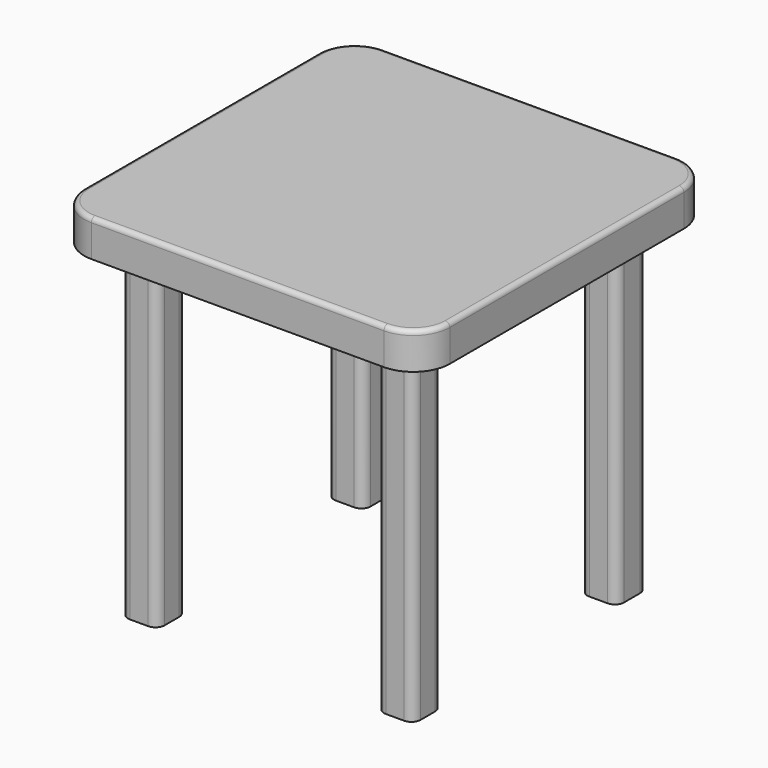
from build123d import *

# Parameters (mm, degrees)
F1_DEPTH = 40
F3_DEPTH = 360
F4_R     = 5


with BuildPart() as f1:
    # F0 (on Top) → F1 (new body)
    with BuildSketch(Plane.XY):
        with BuildLine():
            Line((174.920015, 267.026268), (-145.079985, 267.026268))
            ThreePointArc((-145.079985, 267.026268), (-173.364256, 255.310539), (-185.079985, 227.026268))
            Line((-185.079985, 227.026268), (-185.079985, -92.973732))
            ThreePointArc((-185.079985, -92.973732), (-173.364256, -121.258003), (-145.079985, -132.973732))
            Line((-145.079985, -132.973732), (174.920015, -132.973732))
            ThreePointArc((174.920015, -132.973732), (203.204286, -121.258003), (214.920015, -92.973732))
            Line((214.920015, -92.973732), (214.920015, 227.026268))
            ThreePointArc((214.920015, 227.026268), (203.204286, 255.310539), (174.920015, 267.026268))
        make_face()
    extrude(amount=F1_DEPTH)

    # F2 (on face) → F3 (join)
    with BuildSketch(Plane(origin=(0, 0, 0), x_dir=(1, 0, 0), z_dir=(0, 0, -1))):
        with BuildLine():
            ThreePointArc((-145.079985, 62.973732), (-142.151053, 55.902664), (-135.079985, 52.973732))
            Line((-135.079985, 52.973732), (-115.079985, 52.973732))
            ThreePointArc((-115.079985, 52.973732), (-108.008917, 55.902664), (-105.079985, 62.973732))
            Line((-105.079985, 62.973732), (-105.079985, 82.973732))
            ThreePointArc((-105.079985, 82.973732), (-108.008917, 90.0448), (-115.079985, 92.973732))
            Line((-115.079985, 92.973732), (-135.079985, 92.973732))
            ThreePointArc((-135.079985, 92.973732), (-142.151053, 90.0448), (-145.079985, 82.973732))
            Line((-145.079985, 82.973732), (-145.079985, 62.973732))
        make_face()
        with BuildLine():
            Line((-115.079985, -188.623472), (-135.079985, -188.623472))
            ThreePointArc((-135.079985, -188.623472), (-142.151053, -191.552404), (-145.079985, -198.623472))
            Line((-145.079985, -198.623472), (-145.079985, -217.026268))
            ThreePointArc((-145.079985, -217.026268), (-142.151053, -224.097336), (-135.079985, -227.026268))
            Line((-135.079985, -227.026268), (-115.079985, -227.026268))
            ThreePointArc((-115.079985, -227.026268), (-108.008917, -224.097336), (-105.079985, -217.026268))
            Line((-105.079985, -217.026268), (-105.079985, -198.623472))
            ThreePointArc((-105.079985, -198.623472), (-108.008917, -191.552404), (-115.079985, -188.623472))
        make_face()
        with BuildLine():
            ThreePointArc((174.920015, -195.220733), (171.991083, -188.149665), (164.920015, -185.220733))
            Line((164.920015, -185.220733), (144.920015, -185.220733))
            ThreePointArc((144.920015, -185.220733), (137.848947, -188.149665), (134.920015, -195.220733))
            Line((134.920015, -195.220733), (134.920015, -217.026268))
            ThreePointArc((134.920015, -217.026268), (137.848947, -224.097336), (144.920015, -227.026268))
            Line((144.920015, -227.026268), (164.920015, -227.026268))
            ThreePointArc((164.920015, -227.026268), (171.991083, -224.097336), (174.920015, -217.026268))
            Line((174.920015, -217.026268), (174.920015, -195.220733))
        make_face()
        with BuildLine():
            Line((164.920015, 92.973732), (144.920015, 92.973732))
            ThreePointArc((144.920015, 92.973732), (137.848947, 90.0448), (134.920015, 82.973732))
            Line((134.920015, 82.973732), (134.920015, 63.043179))
            ThreePointArc((134.920015, 63.043179), (137.848947, 55.972111), (144.920015, 53.043179))
            Line((144.920015, 53.043179), (164.920015, 53.043179))
            ThreePointArc((164.920015, 53.043179), (171.991083, 55.972111), (174.920015, 63.043179))
            Line((174.920015, 63.043179), (174.920015, 82.973732))
            ThreePointArc((174.920015, 82.973732), (171.991083, 90.0448), (164.920015, 92.973732))
        make_face()
    extrude(amount=F3_DEPTH)

    # F4
    f4_edges = [f1.edges().sort_by_distance(p)[0] for p in [
        (214.920015, 67.026268, 40),
        (203.204286, 255.310539, 40),
        (14.920015, 267.026268, 40),
        (-173.364256, 255.310539, 40),
        (-185.079985, 67.026268, 40),
        (-173.364256, -121.258003, 40),
        (14.920015, -132.973732, 40),
        (203.204286, -121.258003, 40),
    ]]
    fillet(f4_edges, radius=F4_R)


solid = f1.part
